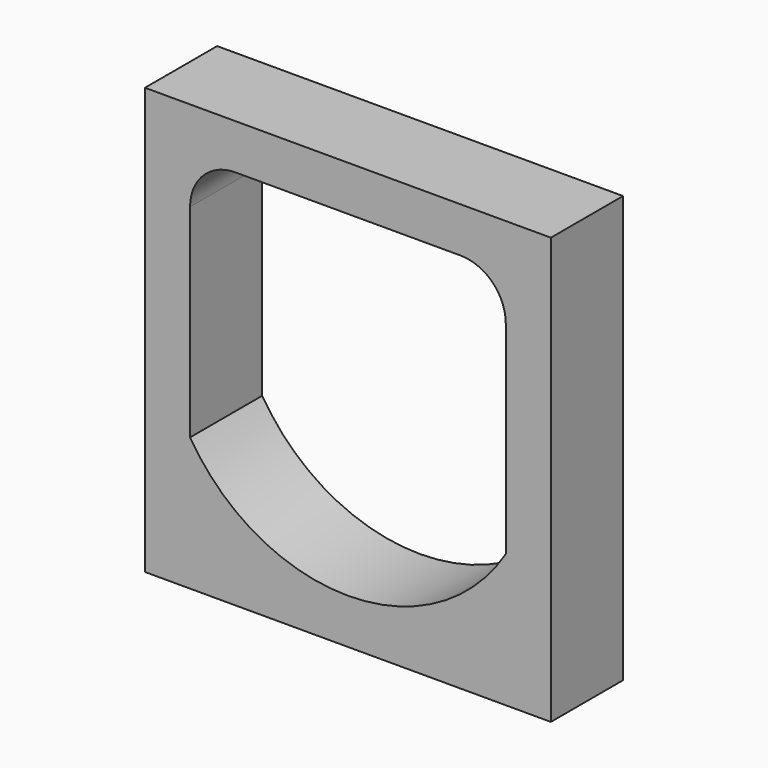
from build123d import *

# Parameters (mm, degrees)
F0_W     = 90
F0_H     = 94.526901
F1_DEPTH = 20


with BuildPart() as f1:
    # F0 (on Front) → F1 (new body)
    with BuildSketch(Plane.XZ):
        with Locations((10.317164, -11.026002)):
            Rectangle(F0_W, F0_H)
        with BuildLine():
            ThreePointArc((-24.682836, 16.237448), (-21.753904, 23.308516), (-14.682836, 26.237448))
            Line((-14.682836, 26.237448), (35.317164, 26.237448))
            ThreePointArc((35.317164, 26.237448), (42.388231, 23.308516), (45.317164, 16.237448))
            Line((45.317164, 16.237448), (45.317164, -28.762552))
            ThreePointArc((45.317164, -28.762552), (10.317164, -48.289453), (-24.682836, -28.762552))
            Line((-24.682836, -28.762552), (-24.682836, 16.237448))
        make_face(mode=Mode.SUBTRACT)
    extrude(amount=F1_DEPTH)


solid = f1.part
